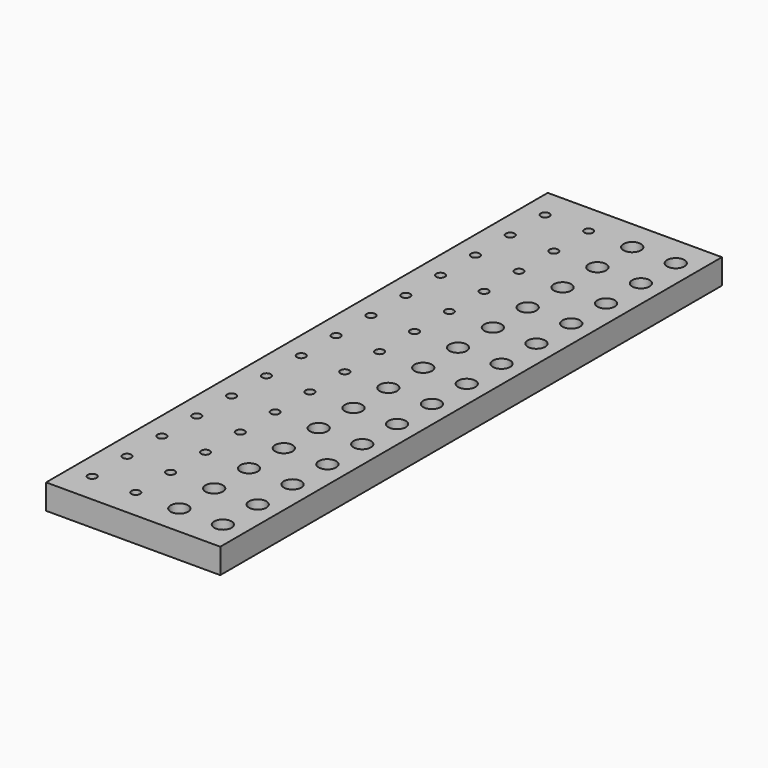
from build123d import *

# Parameters (mm, degrees)
F0_W     = 127
F0_H     = 457.2
F1_DEPTH = 18.25625
F2_R     = 6.35
F2_R_2   = 3.175
F3_DEPTH = 15.875


with BuildPart() as f1:
    # F0 (on Top) → F1 (new body)
    with BuildSketch(Plane.XY):
        Rectangle(F0_W, F0_H)
    extrude(amount=F1_DEPTH)

    # F2 (on face) → F3 (cut)
    with BuildSketch(Plane.XY.offset(18.25625)):
        with Locations((47.625, 206.375)):
            Circle(F2_R)
        with Locations((-47.625, 206.375)):
            Circle(F2_R_2)
        with Locations((47.625, 174.625)):
            Circle(F2_R)
        with Locations((47.625, 142.875)):
            Circle(F2_R)
        with Locations((47.625, 111.125)):
            Circle(F2_R)
        with Locations((47.625, 79.375)):
            Circle(F2_R)
        with Locations((47.625, 47.625)):
            Circle(F2_R)
        with Locations((47.625, 15.875)):
            Circle(F2_R)
        with Locations((47.625, -15.875)):
            Circle(F2_R)
        with Locations((47.625, -47.625)):
            Circle(F2_R)
        with Locations((47.625, -79.375)):
            Circle(F2_R)
        with Locations((47.625, -111.125)):
            Circle(F2_R)
        with Locations((47.625, -142.875)):
            Circle(F2_R)
        with Locations((47.625, -174.625)):
            Circle(F2_R)
        with Locations((47.625, -206.375)):
            Circle(F2_R)
        with Locations((15.875, 206.375)):
            Circle(F2_R)
        with Locations((15.875, 174.625)):
            Circle(F2_R)
        with Locations((15.875, 142.875)):
            Circle(F2_R)
        with Locations((15.875, 111.125)):
            Circle(F2_R)
        with Locations((15.875, 79.375)):
            Circle(F2_R)
        with Locations((15.875, 47.625)):
            Circle(F2_R)
        with Locations((15.875, 15.875)):
            Circle(F2_R)
        with Locations((15.875, -15.875)):
            Circle(F2_R)
        with Locations((15.875, -47.625)):
            Circle(F2_R)
        with Locations((15.875, -79.375)):
            Circle(F2_R)
        with Locations((15.875, -111.125)):
            Circle(F2_R)
        with Locations((15.875, -142.875)):
            Circle(F2_R)
        with Locations((15.875, -174.625)):
            Circle(F2_R)
        with Locations((15.875, -206.375)):
            Circle(F2_R)
        with Locations((-47.625, 174.625)):
            Circle(F2_R_2)
        with Locations((-47.625, 142.875)):
            Circle(F2_R_2)
        with Locations((-47.625, 111.125)):
            Circle(F2_R_2)
        with Locations((-47.625, 79.375)):
            Circle(F2_R_2)
        with Locations((-47.625, 47.625)):
            Circle(F2_R_2)
        with Locations((-47.625, 15.875)):
            Circle(F2_R_2)
        with Locations((-47.625, -15.875)):
            Circle(F2_R_2)
        with Locations((-47.625, -47.625)):
            Circle(F2_R_2)
        with Locations((-47.625, -79.375)):
            Circle(F2_R_2)
        with Locations((-47.625, -111.125)):
            Circle(F2_R_2)
        with Locations((-47.625, -142.875)):
            Circle(F2_R_2)
        with Locations((-47.625, -174.625)):
            Circle(F2_R_2)
        with Locations((-47.625, -206.375)):
            Circle(F2_R_2)
        with Locations((-15.875, 206.375)):
            Circle(F2_R_2)
        with Locations((-15.875, 174.625)):
            Circle(F2_R_2)
        with Locations((-15.875, 142.875)):
            Circle(F2_R_2)
        with Locations((-15.875, 111.125)):
            Circle(F2_R_2)
        with Locations((-15.875, 79.375)):
            Circle(F2_R_2)
        with Locations((-15.875, 47.625)):
            Circle(F2_R_2)
        with Locations((-15.875, 15.875)):
            Circle(F2_R_2)
        with Locations((-15.875, -15.875)):
            Circle(F2_R_2)
        with Locations((-15.875, -47.625)):
            Circle(F2_R_2)
        with Locations((-15.875, -79.375)):
            Circle(F2_R_2)
        with Locations((-15.875, -111.125)):
            Circle(F2_R_2)
        with Locations((-15.875, -142.875)):
            Circle(F2_R_2)
        with Locations((-15.875, -174.625)):
            Circle(F2_R_2)
        with Locations((-15.875, -206.375)):
            Circle(F2_R_2)
    extrude(amount=-F3_DEPTH, mode=Mode.SUBTRACT)


solid = f1.part
